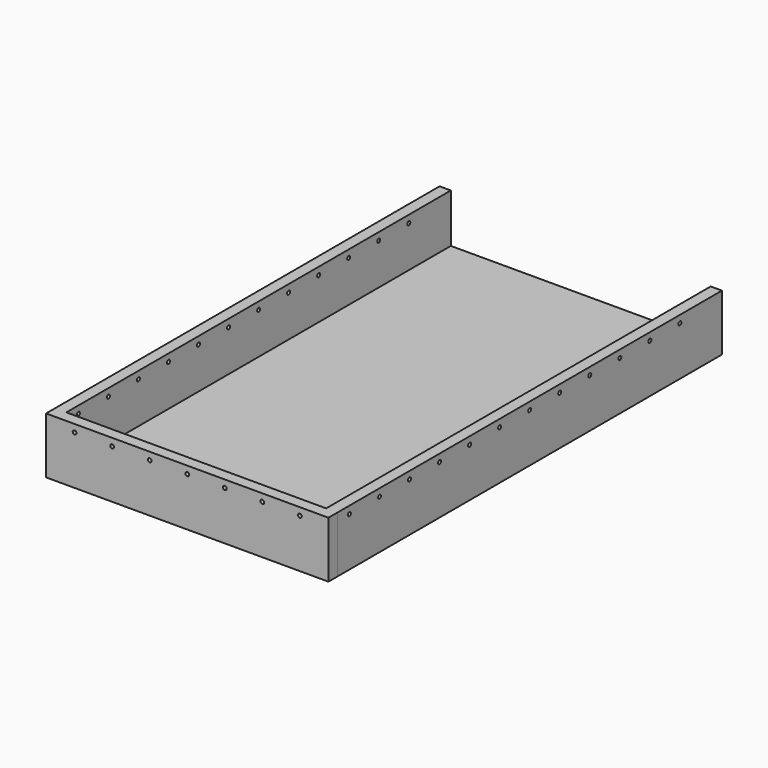
from build123d import *

# Parameters (mm, degrees)
F0_W      = 87.884
F0_H      = 162.56
F1_DEPTH  = 2.54
F2_W      = 3.81
F2_H      = 162.56
F3_DEPTH  = 19.05
F4_W      = 95.5031178892
F4_H      = 3.8138817525
F5_DEPTH  = 19.05
F8_D      = 1.27
F8_DEPTH  = 3.81
F8_TIP    = 0.3815464931
F9_D      = 1.27
F9_DEPTH  = 3.81
F9_TIP    = 0.3815464931
F11_D     = 1.27
F11_DEPTH = 3.81
F11_TIP   = 0.3815464931


with BuildPart() as f1:
    # F0 (on Top) → F1 (new body)
    with BuildSketch(Plane.XY):
        Rectangle(F0_W, F0_H)
    extrude(amount=F1_DEPTH)

    # F2 (on Top) → F3 (join)
    with BuildSketch(Plane.XY):
        with Locations((-45.847, 0)):
            Rectangle(F2_W, F2_H)
        with Locations((45.847, 0)):
            Rectangle(F2_W, F2_H)
    extrude(amount=F3_DEPTH)

    # F4 (on Top) → F5 (join)
    with BuildSketch(Plane.XY):
        with Locations((0.0004451722, -83.1869408762)):
            Rectangle(F4_W, F4_H)
    extrude(amount=F5_DEPTH)

    # F8
    with Locations(Plane.YZ.offset(47.752)):
        with Locations((-12.7, 16.51), (0, 16.51), (12.7, 16.51), (25.4, 16.51), (38.1, 16.51), (50.8, 16.51), (63.5, 16.51), (-25.4, 16.51), (-38.1, 16.51), (-50.8, 16.51), (-63.5, 16.51), (-76.2, 16.51)):
            Hole(F8_D / 2, depth=F8_DEPTH)
            with Locations((0, 0, -(F8_DEPTH + F8_TIP / 2))):  # 118° drill point
                Cone(0, F8_D / 2, F8_TIP, mode=Mode.SUBTRACT)

    # F9
    with Locations(Plane(origin=(-47.752, 0, 0), x_dir=(0, -1, 0), z_dir=(-1, 0, 0))):
        with Locations((-63.5, 16.51), (-50.8, 16.51), (-38.1, 16.51), (-12.7, 16.51), (0, 16.51), (-25.4, 16.51), (12.7, 16.51), (25.4, 16.51), (38.1, 16.51), (50.8, 16.51), (63.5, 16.51), (76.2, 16.51)):
            Hole(F9_D / 2, depth=F9_DEPTH)
            with Locations((0, 0, -(F9_DEPTH + F9_TIP / 2))):  # 118° drill point
                Cone(0, F9_D / 2, F9_TIP, mode=Mode.SUBTRACT)

    # F11
    with Locations(Plane.XZ.offset(85.0938817525)):
        with Locations((-38.1, 16.51), (-25.4, 16.51), (-12.7, 16.51), (0, 16.51), (12.7, 16.51), (25.4, 16.51), (38.1, 16.51)):
            Hole(F11_D / 2, depth=F11_DEPTH)
            with Locations((0, 0, -(F11_DEPTH + F11_TIP / 2))):  # 118° drill point
                Cone(0, F11_D / 2, F11_TIP, mode=Mode.SUBTRACT)


solid = f1.part
